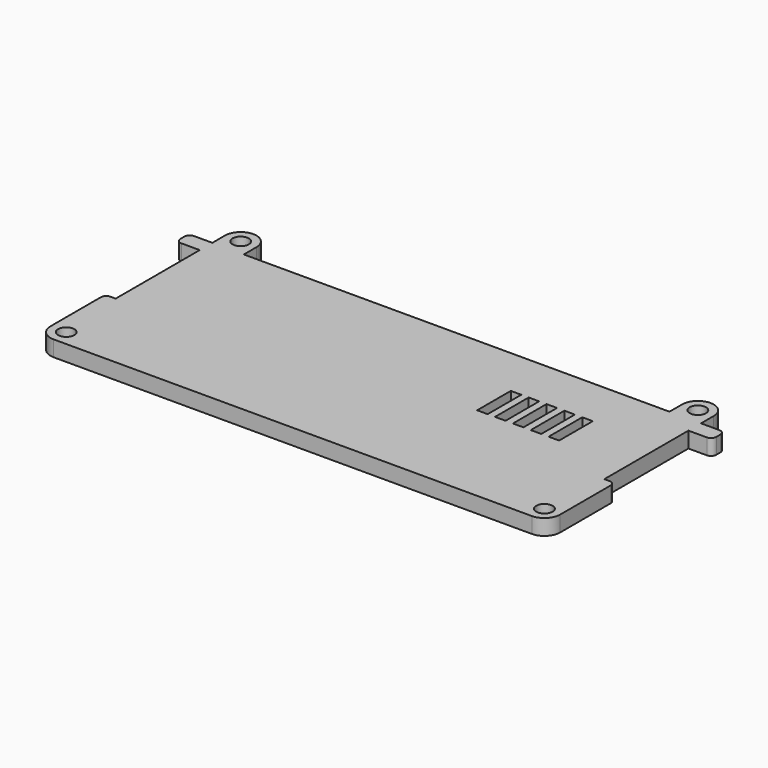
from build123d import *

# Parameters (mm, degrees)
PAD_DEPTH           = 3
PAD001_DEPTH        = 3
FILLET_R            = 3
FILLET001_R         = 1
FILLET002_R         = 1
SKETCH003_W         = 1.5
SKETCH003_H         = 14
SKETCH003_H_2       = 4
SKETCH003_W_2       = 40.5
SKETCH003_H_3       = 1.5
PAD002_DEPTH        = 1
SKETCH005_R         = 1.55
POCKET001_DEPTH     = 5
SKETCH004_W         = 2
SKETCH004_H         = 8
POCKET_DEPTH        = 4.001
LINEARPATTERN_COUNT = 5
LINEARPATTERN_PITCH = 3.4


with BuildPart() as part:
    # Sketch → Pad (new body)
    with BuildSketch(Plane.XY):
        Polygon((0, 3), (51, 3), (51, 0), (46.5, 0), (46.5, -20), (48.5, -20), (48.5, -36), (0, -36), align=None)
    extrude(amount=PAD_DEPTH)

    # Sketch001 (on Face10 of Pad) → Pad001 (join)
    with BuildSketch(Plane.XY.offset(3)):
        with BuildLine():
            Line((46.5, 6), (46.5, 3))
            Line((46.5, 3), (40.5, 3))
            Line((40.5, 3), (40.5, 6))
            ThreePointArc((46.5, 6), (43.5, 9), (40.5, 6))
        make_face()
    extrude(amount=-PAD001_DEPTH)

    # Fillet
    fillet_edges = [part.edges().sort_by_distance(p)[0] for p in [
        (48.5, -36, 1.5),
    ]]
    fillet(fillet_edges, radius=FILLET_R)

    # Fillet001
    fillet001_edges = [part.edges().sort_by_distance(p)[0] for p in [
        (48.5, -20, 1.5),
    ]]
    fillet(fillet001_edges, radius=FILLET001_R)

    # Fillet002
    fillet002_edges = [part.edges().sort_by_distance(p)[0] for p in [
        (51, 3, 1.5),
        (51, 0, 1.5),
    ]]
    fillet(fillet002_edges, radius=FILLET002_R)

    # Sketch003 → Pad002 (join)
    with BuildSketch(Plane(origin=(0, 0, 0), x_dir=(1, 0, 0), z_dir=(0, 0, -1))):
        with Locations((42.55, 9)):
            Rectangle(SKETCH003_W, SKETCH003_H)
        with Locations((44.55, 26)):
            Rectangle(SKETCH003_W, SKETCH003_H_2)
        with Locations((20.25, 32.05)):
            Rectangle(SKETCH003_W_2, SKETCH003_H_3)
    extrude(amount=PAD002_DEPTH)

    # Sketch005 (on Face28 of Pad002) → Pocket001 (cut)
    with BuildSketch(Plane.XY.offset(3)):
        with Locations((43.5, 6)):
            Circle(SKETCH005_R)
        with Locations((45.5, -33)):
            Circle(SKETCH005_R)
    extrude(amount=-POCKET001_DEPTH, mode=Mode.SUBTRACT)

    # Mirrored: part across YZ


with BuildPart() as part_1:
    add(part.part)
    add(part.part.mirror(Plane.YZ))

    # Sketch004 (on Face58 of Mirrored) → Pocket (cut, through all)
    with BuildSketch(Plane.XY.offset(3)):
        with Locations((32.5, -10.5)):
            Rectangle(SKETCH004_W, SKETCH004_H)
    pocket = extrude(amount=-POCKET_DEPTH, mode=Mode.SUBTRACT)

    # LinearPattern: Pocket ×5
    with Locations(*[(-i * LINEARPATTERN_PITCH, 0, 0) for i in range(1, LINEARPATTERN_COUNT)]):
        add(pocket, mode=Mode.SUBTRACT)


solid = part_1.part
